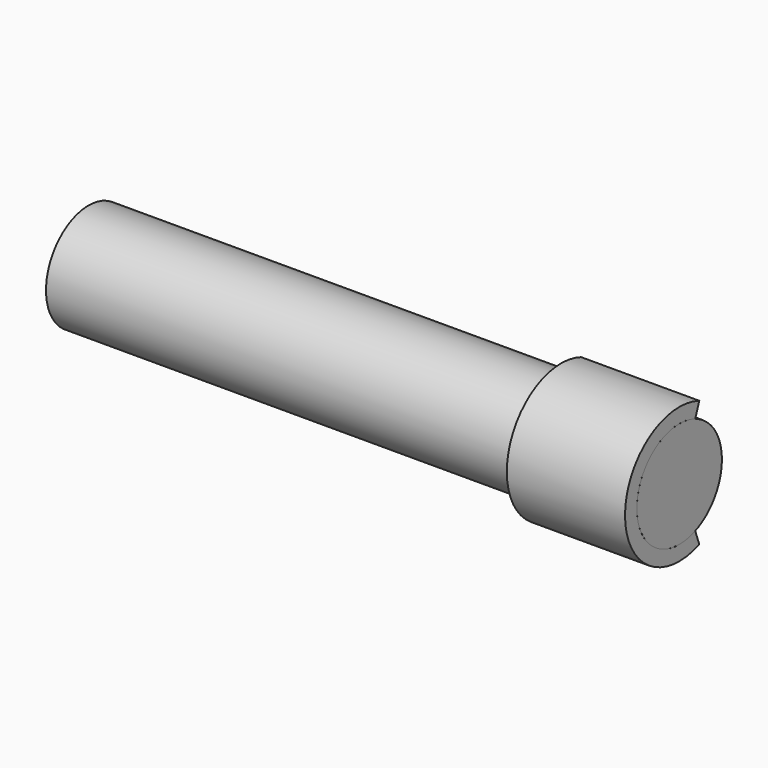
from build123d import *

# Parameters (mm, degrees)
F0_R     = 9
F1_DEPTH = 100
F3_DEPTH = 20


with BuildPart() as f1:
    # F0 (on Right) → F1 (new body)
    with BuildSketch(Plane.YZ):
        Circle(F0_R)
    extrude(amount=F1_DEPTH)


with BuildPart() as f3:
    # F2 (on face) → F3 (new body)
    with BuildSketch(Plane.YZ.offset(100)):
        with BuildLine():
            ThreePointArc((3.355307, -8.351163), (-9, 0), (3.355307, 8.351163))
            Line((3.355307, 8.351163), (4.210721, 10.701394))
            ThreePointArc((4.210721, 10.701394), (-11.5, 0), (4.210721, -10.701394))
            Line((4.210721, -10.701394), (3.355307, -8.351163))
        make_face()
    extrude(amount=-F3_DEPTH)


solid = Compound([f1.part, f3.part])
